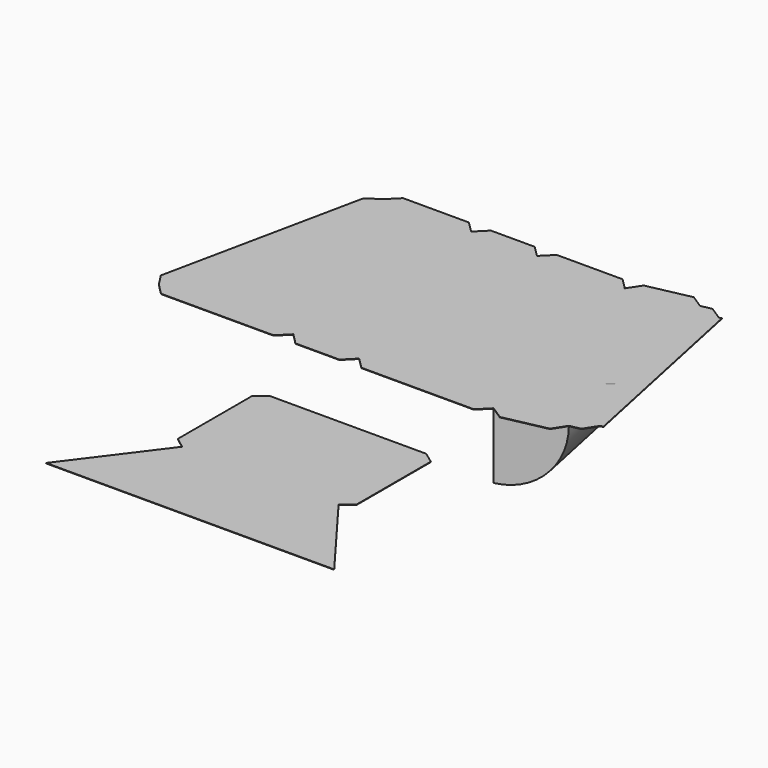
from build123d import *

# Parameters (mm, degrees)
F9_W      = 262.7780075463
F9_H      = 76.2
F10_ANGLE = 90
F11_W     = 76.2
F11_H     = 257.175
F12_DEPTH = 0.508
F11_W_2   = 180.975
F11_H_2   = 101.6


with BuildPart() as f10:
    # F9 (on face) → F10 (revolve)
    with BuildSketch(Plane(origin=(76.8359391057, 16.1260612938, 0), x_dir=(0.2054015117, -0.9786777912, 0), z_dir=(-0.9786777912, -0.2054015117, 0))):
        with Locations((-114.9116080063, -13.7723366184)):
            Rectangle(F9_W, F9_H)
    revolve(axis=Axis((53.2329211056, 128.5875, 24.3276633816), (0.2054015117, -0.9786777912, 0)), revolution_arc=F10_ANGLE)


with BuildPart() as f12:
    # F11 (on face) → F12 (new body)
    with BuildSketch(Plane(origin=(0, 0, 24.3276633816), x_dir=(1, 0, 0), z_dir=(0, 0, -1))):
        Polygon((80.2204211056, 0), (26.2454211056, -257.175), (100.8206687947, -272.826595194), (154.7956687947, -15.651595194), align=None)
        Polygon((-75.3545788944, -257.175), (26.2454211056, -257.175), (80.2204211056, 0), (-75.3545788944, 0), align=None)
        Polygon((13.5454211056, -269.875), (26.2454211056, -257.175), (-75.3545788944, -257.175), (-62.6545788944, -269.875), align=None)
        Polygon((100.8206687947, -272.826595194), (26.2454211056, -257.175), (36.0660298548, -272.2128071472), (85.7828616475, -282.6472039432), align=None)
        Polygon((154.7956687947, -15.651595194), (100.8206687947, -272.826595194), (113.2498767428, -275.435194393), (167.2248767428, -18.260194393), align=None)
        Polygon((95.2582282528, 9.8206087492), (80.2204211056, 0), (154.7956687947, -15.651595194), (144.9750600455, -0.6137880468), align=None)
        Polygon((-75.3545788944, 0), (80.2204211056, 0), (67.5204211056, 12.7), (-62.6545788944, 12.7), align=None)
        Polygon((-88.0545788944, -269.875), (-75.3545788944, -257.175), (-151.5545788944, -257.175), (-138.8545788944, -269.875), align=None)
        with Locations((-113.4545788944, -128.5875)):
            Rectangle(F11_W, F11_H)
        Polygon((167.2248767428, -18.260194393), (113.2498767428, -275.435194393), (128.28768389, -265.6145856438), (177.045485492, -33.2980015402), align=None)
        Polygon((-151.5545788944, 0), (-75.3545788944, 0), (-88.0545788944, 12.7), (-138.8545788944, 12.7), align=None)
        Polygon((-253.1545788944, -257.175), (-151.5545788944, -257.175), (-151.5545788944, 0), (-307.1295788944, 0), align=None)
        Polygon((-164.2545788944, -269.875), (-151.5545788944, -257.175), (-253.1545788944, -257.175), (-240.4545788944, -269.875), align=None)
        Polygon((177.045485492, -33.2980015402), (128.28768389, -265.6145856438), (131.3949858771, -266.2667354436), (180.1527874791, -33.9501513399), align=None)
        Polygon((-307.1295788944, 0), (-151.5545788944, 0), (-164.2545788944, 12.7), (-294.4295788944, 12.7), align=None)
        Polygon((-268.1923860416, -247.3543912508), (-253.1545788944, -257.175), (-307.1295788944, 0), (-316.9501876436, -15.0378071472), align=None)
    extrude(amount=F12_DEPTH)


with BuildPart() as f12b:
    # F11 (on face) → F12, piece 2 (new body)
    with BuildSketch(Plane(origin=(0, 0, 24.3276633816), x_dir=(1, 0, 0), z_dir=(0, 0, -1))):
        with Locations((-1.9481492972, 285.4342016459)):
            Rectangle(F11_W_2, F11_H_2)
        Polygon((-168.6356492972, 336.2342016459), (-92.4356492972, 234.6342016459), (-92.4356492972, 336.2342016459), align=None)
        Polygon((88.5393507028, 234.6342016459), (-92.4356492972, 234.6342016459), (-105.1356492972, 225.1092016459), (-105.1356492972, 117.1592016459), (-92.4356492972, 107.6342016459), (88.5393507028, 107.6342016459), (101.2393507028, 117.1592016459), (101.2393507028, 225.1092016459), align=None)
        Polygon((88.5393507028, 336.2342016459), (88.5393507028, 234.6342016459), (164.7393507028, 336.2342016459), align=None)
    extrude(amount=F12_DEPTH)


solid = Compound([f10.part, f12.part, f12b.part])
